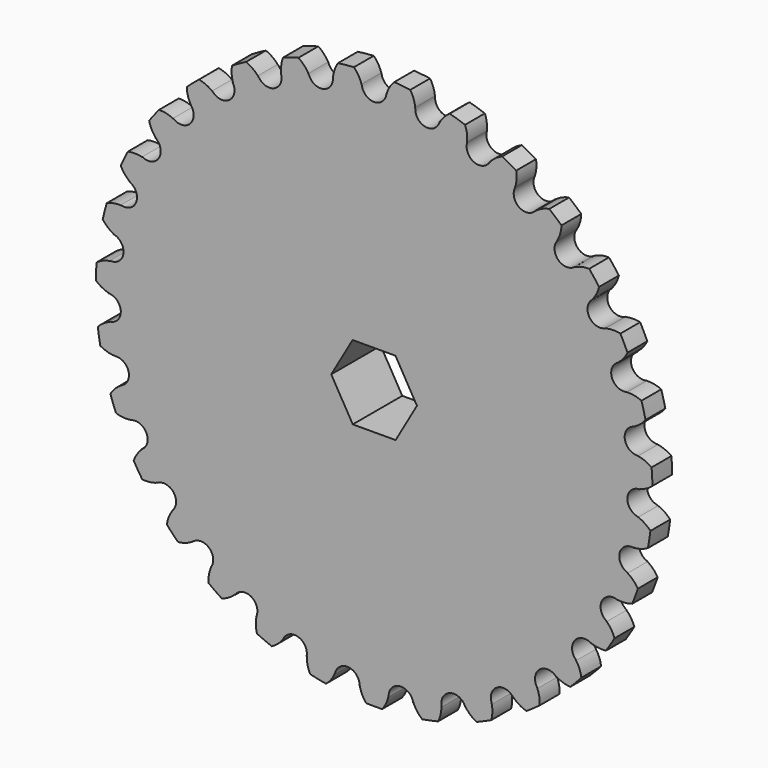
from build123d import *

# Parameters (mm, degrees)
F0_R          = 71.4375
F1_DEPTH      = 6.35
F3_DEPTH      = 6.35
F5_DEPTH      = 6.35
F6_R          = 25.4
F7_DEPTH      = 9.525
F9_DEPTH      = 9.525
F9_DEPTH_BACK = 9.525


with BuildPart() as f1:
    # F0 (on Front) → F1 (new body)
    with BuildSketch(Plane.XZ):
        Circle(F0_R)
    extrude(amount=F1_DEPTH)

    # F2 (on Front) → F3 (cut)
    with BuildSketch(Plane.XZ):
        with BuildLine():
            Line((-3.3226744186, 71.3601866657), (-3.1715638518, 68.1148255814))
            ThreePointArc((-3.1715638518, 68.1148255814), (0, 65.0875), (3.1715638518, 68.1148255814))
            Line((3.1715638518, 68.1148255814), (3.3226744186, 71.3601866657))
            ThreePointArc((3.3226744186, 71.3601866657), (0, 71.4375), (-3.3226744186, 71.3601866657))
        make_face()
        with BuildLine():
            Line((-68.1880377642, -0.2824661289), (-71.4368870754, -0.295924353))
            ThreePointArc((-71.4368870754, -0.295924353), (-71.345810481, -3.6182499989), (-71.1003056802, -6.9327439326))
            Line((-71.1003056802, -6.9327439326), (-67.8667636182, -6.6174524736))
            ThreePointArc((-67.8667636182, -6.6174524736), (-65.0039606605, -3.2966277768), (-68.1880377642, -0.2824661289))
        make_face()
        with BuildLine():
            Line((-66.8490846391, 13.449467059), (-70.0341389346, 14.0902728839))
            ThreePointArc((-70.0341389346, 14.0902728839), (-70.6137059192, 10.8176218555), (-71.0404293397, 7.5215560542))
            Line((-71.0404293397, 7.5215560542), (-67.8096103696, 7.1794862468))
            ThreePointArc((-67.8096103696, 7.1794862468), (-64.3369320597, 9.8560554683), (-66.8490846391, 13.449467059))
        make_face()
        with BuildLine():
            Line((-62.7733221343, 26.6307774853), (-65.7641849171, 27.8996126934))
            ThreePointArc((-65.7641849171, 27.8996126934), (-66.9906679403, 24.8106190001), (-68.0721494752, 21.6679226525))
            Line((-68.0721494752, 21.6679226525), (-64.9763237052, 20.6824959568))
            ThreePointArc((-64.9763237052, 20.6824959568), (-61.0359419011, 22.6052306445), (-62.7733221343, 26.6307774853))
        make_face()
        with BuildLine():
            Line((-56.1276124458, 38.7218207524), (-58.8018374421, 40.5667390812))
            ThreePointArc((-58.8018374421, 40.5667390812), (-60.6250241448, 37.7878664877), (-62.316987813, 34.9272019515))
            Line((-62.316987813, 34.9272019515), (-59.482898714, 33.3387618521))
            ThreePointArc((-59.482898714, 33.3387618521), (-55.2361331097, 34.4289450222), (-56.1276124458, 38.7218207524))
        make_face()
        with BuildLine():
            Line((-47.1840317091, 49.2275881282), (-49.4321358333, 51.5730584046))
            ThreePointArc((-49.4321358333, 51.5730584046), (-51.7773847377, 49.2180742815), (-54.0105613479, 46.7565574988))
            Line((-54.0105613479, 46.7565574988), (-51.5542368604, 44.6301349202))
            ThreePointArc((-51.5542368604, 44.6301349202), (-47.1749505388, 44.8431343453), (-47.1840317091, 49.2275881282))
        make_face()
        with BuildLine():
            Line((-36.3087311704, 57.7179722621), (-38.0386767755, 60.4679706574))
            ThreePointArc((-38.0386767755, 60.4679706574), (-40.8099731158, 58.6332883312), (-43.4929361551, 56.6716940884))
            Line((-43.4929361551, 56.6716940884), (-41.5149384924, 54.0943450207))
            ThreePointArc((-41.5149384924, 54.0943450207), (-37.18241995, 53.4214404796), (-36.3087311704, 57.7179722621))
        make_face()
        with BuildLine():
            Line((-23.9469469114, 63.84537583), (-25.0879098211, 66.8873170867))
            ThreePointArc((-25.0879098211, 66.8873170867), (-28.1717963997, 65.6480486676), (-31.194705046, 64.2666848635))
            Line((-31.194705046, 64.2666848635), (-29.7760136647, 61.3439262803))
            ThreePointArc((-29.7760136647, 61.3439262803), (-25.6676367197, 59.8126665638), (-23.9469469114, 63.84537583))
        make_face()
        with BuildLine():
            Line((-10.6047718322, 67.3589422099), (-11.110040891, 70.5682888956))
            ThreePointArc((-11.110040891, 70.5682888956), (-14.3802630288, 69.9751701782), (-17.6193590471, 69.2305900092))
            Line((-17.6193590471, 69.2305900092), (-16.8180553391, 66.0820799904))
            ThreePointArc((-16.8180553391, 66.0820799904), (-13.1020174263, 63.7551550513), (-10.6047718322, 67.3589422099))
        make_face()
        with BuildLine():
            Line((-68.2493271522, -21.1032165683), (-65.1454435902, -20.1434719123))
            ThreePointArc((-65.1454435902, -20.1434719123), (-63.0097194742, -16.3143466934), (-66.7353646116, -14.0028351204))
            Line((-66.7353646116, -14.0028351204), (-69.9150006659, -14.6700064121))
            ThreePointArc((-69.9150006659, -14.6700064121), (-69.157009179, -17.9059902732), (-68.2493271522, -21.1032165683))
        make_face()
        with BuildLine():
            Line((-62.5505377907, -27.1499263967), (-65.5307859145, -28.4434966851))
            ThreePointArc((-65.5307859145, -28.4434966851), (-64.1369117956, -31.4606572019), (-62.6042131516, -34.4097210382))
            Line((-62.6042131516, -34.4097210382), (-59.7570614474, -32.8448152441))
            ThreePointArc((-59.7570614474, -32.8448152441), (-58.4358529693, -28.6641543395), (-62.5505377907, -27.1499263967))
        make_face()
        with BuildLine():
            Line((-54.3960753089, -46.3074874857), (-51.9222181878, -44.2014879807))
            ThreePointArc((-51.9222181878, -44.2014879807), (-51.4696157779, -39.8404481391), (-55.8048846032, -39.1854964964))
            Line((-55.8048846032, -39.1854964964), (-58.4637330882, -41.0525068618))
            ThreePointArc((-58.4637330882, -41.0525068618), (-56.4910417075, -43.7273211282), (-54.3960753089, -46.3074874857))
        make_face()
        with BuildLine():
            Line((-43.9609557518, -56.3094199548), (-41.9616732149, -53.748546606))
            ThreePointArc((-41.9616732149, -53.748546606), (-42.3962064692, -49.3856693108), (-46.7745728833, -49.6168077654))
            Line((-46.7745728833, -49.6168077654), (-49.0031681601, -51.9808225841))
            ThreePointArc((-49.0031681601, -51.9808225841), (-46.5324217345, -54.2037833899), (-43.9609557518, -56.3094199548))
        make_face()
        with BuildLine():
            Line((16.8180553391, 66.0820799904), (17.6193590471, 69.2305900092))
            ThreePointArc((17.6193590471, 69.2305900092), (14.3802630288, 69.9751701782), (11.110040891, 70.5682888956))
            Line((11.110040891, 70.5682888956), (10.6047718322, 67.3589422099))
            ThreePointArc((10.6047718322, 67.3589422099), (13.1020174263, 63.7551550513), (16.8180553391, 66.0820799904))
        make_face()
        with BuildLine():
            Line((-31.726069501, -64.0060381548), (-30.2832124104, -61.0951334179))
            ThreePointArc((-30.2832124104, -61.0951334179), (-31.5870914862, -56.9090353783), (-35.8293046538, -58.0168010948))
            Line((-35.8293046538, -58.0168010948), (-37.5364077699, -60.7810373224))
            ThreePointArc((-37.5364077699, -60.7810373224), (-34.6687589483, -62.4611363908), (-31.726069501, -64.0060381548))
        make_face()
        with BuildLine():
            Line((-18.1923142372, -69.0822416323), (-17.3649533316, -65.9404782894))
            ThreePointArc((-17.3649533316, -65.9404782894), (-19.4847972665, -62.1025388509), (-23.417180482, -64.0415797707))
            Line((-23.417180482, -64.0415797707), (-24.5329024352, -67.0928692512))
            ThreePointArc((-24.5329024352, -67.0928692512), (-21.3857530974, -68.1613231291), (-18.1923142372, -69.0822416323))
        make_face()
        with BuildLine():
            Line((-3.913763491, -71.3302100206), (-3.7357710232, -68.0862122321))
            ThreePointArc((-3.7357710232, -68.0862122321), (-6.5847931574, -64.7535570863), (-10.0463541899, -67.4444886462))
            Line((-10.0463541899, -67.4444886462), (-10.5250171924, -70.6579112297))
            ThreePointArc((-10.5250171924, -70.6579112297), (-7.227212002, -71.0709772898), (-3.913763491, -71.3302100206))
        make_face()
        with BuildLine():
            Line((10.5250171924, -70.6579112297), (10.0463541899, -67.4444886462))
            ThreePointArc((10.0463541899, -67.4444886462), (6.5847931574, -64.7535570863), (3.7357710232, -68.0862122321))
            Line((3.7357710232, -68.0862122321), (3.913763491, -71.3302100206))
            ThreePointArc((3.913763491, -71.3302100206), (7.227212002, -71.0709772898), (10.5250171924, -70.6579112297))
        make_face()
        with BuildLine():
            Line((24.5329024352, -67.0928692512), (23.417180482, -64.0415797707))
            ThreePointArc((23.417180482, -64.0415797707), (19.4847972665, -62.1025388509), (17.3649533316, -65.9404782894))
            Line((17.3649533316, -65.9404782894), (18.1923142372, -69.0822416323))
            ThreePointArc((18.1923142372, -69.0822416323), (21.3857530974, -68.1613231291), (24.5329024352, -67.0928692512))
        make_face()
        with BuildLine():
            Line((37.5364077699, -60.7810373224), (35.8293046538, -58.0168010948))
            ThreePointArc((35.8293046538, -58.0168010948), (31.5870914862, -56.9090353783), (30.2832124104, -61.0951334179))
            Line((30.2832124104, -61.0951334179), (31.726069501, -64.0060381548))
            ThreePointArc((31.726069501, -64.0060381548), (34.6687589483, -62.4611363908), (37.5364077699, -60.7810373224))
        make_face()
        with BuildLine():
            Line((49.0031681601, -51.9808225841), (46.7745728833, -49.6168077654))
            ThreePointArc((46.7745728833, -49.6168077654), (42.3962064692, -49.3856693108), (41.9616732149, -53.748546606))
            Line((41.9616732149, -53.748546606), (43.9609557518, -56.3094199548))
            ThreePointArc((43.9609557518, -56.3094199548), (46.5324217345, -54.2037833899), (49.0031681601, -51.9808225841))
        make_face()
        with BuildLine():
            Line((58.4637330882, -41.0525068618), (55.8048846032, -39.1854964964))
            ThreePointArc((55.8048846032, -39.1854964964), (51.4696157779, -39.8404481391), (51.9222181878, -44.2014879807))
            Line((51.9222181878, -44.2014879807), (54.3960753089, -46.3074874857))
            ThreePointArc((54.3960753089, -46.3074874857), (56.4910417075, -43.7273211282), (58.4637330882, -41.0525068618))
        make_face()
        with BuildLine():
            Line((65.5307859145, -28.4434966851), (62.5505377907, -27.1499263967))
            ThreePointArc((62.5505377907, -27.1499263967), (58.4358529693, -28.6641543395), (59.7570614474, -32.8448152441))
            Line((59.7570614474, -32.8448152441), (62.6042131516, -34.4097210382))
            ThreePointArc((62.6042131516, -34.4097210382), (64.1369117956, -31.4606572019), (65.5307859145, -28.4434966851))
        make_face()
        with BuildLine():
            Line((69.9150006659, -14.6700064121), (66.7353646116, -14.0028351204))
            ThreePointArc((66.7353646116, -14.0028351204), (63.0097194742, -16.3143466934), (65.1454435902, -20.1434719123))
            Line((65.1454435902, -20.1434719123), (68.2493271522, -21.1032165683))
            ThreePointArc((68.2493271522, -21.1032165683), (69.157009179, -17.9059902732), (69.9150006659, -14.6700064121))
        make_face()
        with BuildLine():
            Line((71.4368870754, -0.295924353), (68.1880377642, -0.2824661289))
            ThreePointArc((68.1880377642, -0.2824661289), (65.0039606605, -3.2966277768), (67.8667636182, -6.6174524736))
            Line((67.8667636182, -6.6174524736), (71.1003056802, -6.9327439326))
            ThreePointArc((71.1003056802, -6.9327439326), (71.345810481, -3.6182499989), (71.4368870754, -0.295924353))
        make_face()
        with BuildLine():
            Line((70.0341389346, 14.0902728839), (66.8490846391, 13.449467059))
            ThreePointArc((66.8490846391, 13.449467059), (64.3369320597, 9.8560554683), (67.8096103696, 7.1794862468))
            Line((67.8096103696, 7.1794862468), (71.0404293397, 7.5215560542))
            ThreePointArc((71.0404293397, 7.5215560542), (70.6137059192, 10.8176218555), (70.0341389346, 14.0902728839))
        make_face()
        with BuildLine():
            Line((65.7641849171, 27.8996126934), (62.7733221343, 26.6307774853))
            ThreePointArc((62.7733221343, 26.6307774853), (61.0359419011, 22.6052306445), (64.9763237052, 20.6824959568))
            Line((64.9763237052, 20.6824959568), (68.0721494752, 21.6679226525))
            ThreePointArc((68.0721494752, 21.6679226525), (66.9906679403, 24.8106190001), (65.7641849171, 27.8996126934))
        make_face()
        with BuildLine():
            Line((58.8018374421, 40.5667390812), (56.1276124458, 38.7218207524))
            ThreePointArc((56.1276124458, 38.7218207524), (55.2361331097, 34.4289450222), (59.482898714, 33.3387618521))
            Line((59.482898714, 33.3387618521), (62.316987813, 34.9272019515))
            ThreePointArc((62.316987813, 34.9272019515), (60.6250241448, 37.7878664877), (58.8018374421, 40.5667390812))
        make_face()
        with BuildLine():
            Line((49.4321358333, 51.5730584046), (47.1840317091, 49.2275881282))
            ThreePointArc((47.1840317091, 49.2275881282), (47.1749505388, 44.8431343453), (51.5542368604, 44.6301349202))
            Line((51.5542368604, 44.6301349202), (54.0105613479, 46.7565574988))
            ThreePointArc((54.0105613479, 46.7565574988), (51.7773847377, 49.2180742815), (49.4321358333, 51.5730584046))
        make_face()
        with BuildLine():
            Line((38.0386767755, 60.4679706574), (36.3087311704, 57.7179722621))
            ThreePointArc((36.3087311704, 57.7179722621), (37.18241995, 53.4214404796), (41.5149384924, 54.0943450207))
            Line((41.5149384924, 54.0943450207), (43.4929361551, 56.6716940884))
            ThreePointArc((43.4929361551, 56.6716940884), (40.8099731158, 58.6332883312), (38.0386767755, 60.4679706574))
        make_face()
        with BuildLine():
            Line((25.0879098211, 66.8873170867), (23.9469469114, 63.84537583))
            ThreePointArc((23.9469469114, 63.84537583), (25.6676367197, 59.8126665638), (29.7760136647, 61.3439262803))
            Line((29.7760136647, 61.3439262803), (31.194705046, 64.2666848635))
            ThreePointArc((31.194705046, 64.2666848635), (28.1717963997, 65.6480486676), (25.0879098211, 66.8873170867))
        make_face()
    extrude(amount=F3_DEPTH, mode=Mode.SUBTRACT)

    # F4 (on Front) → F5 (cut)
    with BuildSketch(Plane.XZ):
        with BuildLine():
            ThreePointArc((3.1563134428, 67.7872966395), (3.9402414233, 69.6477783764), (5.1681811544, 71.2503074366))
            ThreePointArc((5.1681811544, 71.2503074366), (4.2457832554, 71.3112174261), (3.3226744186, 71.3601866657))
            Line((3.3226744186, 71.3601866657), (3.1563134428, 67.7872966395))
        make_face()
        with BuildLine():
            ThreePointArc((9.2801932603, 70.8321566755), (10.1604102647, 69.0152490287), (10.5537789732, 67.0350479199))
            Line((10.5537789732, 67.0350479199), (11.110040891, 70.5682888956))
            ThreePointArc((11.110040891, 70.5682888956), (10.1959707109, 70.706142502), (9.2801932603, 70.8321566755))
        make_face()
        with BuildLine():
            ThreePointArc((-10.5537789732, 67.0350479199), (-10.1604102647, 69.0152490287), (-9.2801932603, 70.8321566755))
            ThreePointArc((-9.2801932603, 70.8321566755), (-10.1959707109, 70.706142502), (-11.110040891, 70.5682888956))
            Line((-11.110040891, 70.5682888956), (-10.5537789732, 67.0350479199))
        make_face()
        with BuildLine():
            ThreePointArc((-5.1681811544, 71.2503074366), (-3.9402414233, 69.6477783764), (-3.1563134428, 67.7872966395))
            Line((-3.1563134428, 67.7872966395), (-3.3226744186, 71.3601866657))
            ThreePointArc((-3.3226744186, 71.3601866657), (-4.2457832554, 71.3112174261), (-5.1681811544, 71.2503074366))
        make_face()
        with BuildLine():
            ThreePointArc((-23.831798438, 63.5383764622), (-23.8450935627, 65.5572272768), (-23.3486354725, 67.5141290977))
            ThreePointArc((-23.3486354725, 67.5141290977), (-24.2203004383, 67.2063497962), (-25.0879098211, 66.8873170867))
            Line((-25.0879098211, 66.8873170867), (-23.831798438, 63.5383764622))
        make_face()
        with BuildLine():
            ThreePointArc((-19.4049696254, 68.7514622396), (-17.8795791645, 67.4289194941), (-16.7371860155, 65.76432547))
            Line((-16.7371860155, 65.76432547), (-17.6193590471, 69.2305900092))
            ThreePointArc((-17.6193590471, 69.2305900092), (-18.5137143563, 68.9968027301), (-19.4049696254, 68.7514622396))
        make_face()
        with BuildLine():
            ThreePointArc((-36.1341412746, 57.4404364067), (-36.5535559286, 59.4152849376), (-36.4611818052, 61.4320651421))
            ThreePointArc((-36.4611818052, 61.4320651421), (-37.25304822, 60.9551212333), (-38.0386767755, 60.4679706574))
            Line((-38.0386767755, 60.4679706574), (-36.1341412746, 57.4404364067))
        make_face()
        with BuildLine():
            ThreePointArc((-32.8473163599, 63.4379241007), (-31.086924834, 62.4495127251), (-29.6328362262, 61.0489550888))
            Line((-29.6328362262, 61.0489550888), (-31.194705046, 64.2666848635))
            ThreePointArc((-31.194705046, 64.2666848635), (-32.0236918162, 63.8576508236), (-32.8473163599, 63.4379241007))
        make_face()
        with BuildLine():
            ThreePointArc((-46.9571481218, 48.9908781358), (-47.7655114199, 50.840873852), (-48.0810030707, 52.8349652216))
            ThreePointArc((-48.0810030707, 52.8349652216), (-48.7606518305, 52.2083828453), (-49.4321358333, 51.5730584046))
            Line((-49.4321358333, 51.5730584046), (-46.9571481218, 48.9908781358))
        make_face()
        with BuildLine():
            ThreePointArc((-44.9448901033, 55.5272298954), (-43.0215681482, 54.9134155677), (-41.3153146402, 53.8342333133))
            Line((-41.3153146402, 53.8342333133), (-43.4929361551, 56.6716940884))
            ThreePointArc((-43.4929361551, 56.6716940884), (-44.2226155706, 56.1041591894), (-44.9448901033, 55.5272298954))
        make_face()
        with BuildLine():
            ThreePointArc((-55.8577238077, 38.5356275577), (-57.0219412614, 40.1850314174), (-57.7323824213, 42.074795617))
            ThreePointArc((-57.7323824213, 42.074795617), (-58.2719886259, 41.3242271293), (-58.8018374421, 40.5667390812))
            Line((-58.8018374421, 40.5667390812), (-55.8577238077, 38.5356275577))
        make_face()
        with BuildLine():
            ThreePointArc((-55.202414765, 45.343244374), (-53.1949034076, 45.1291567249), (-51.3063392184, 44.4155317007))
            Line((-51.3063392184, 44.4155317007), (-54.0105613479, 46.7565574988))
            ThreePointArc((-54.0105613479, 46.7565574988), (-54.6110602475, 46.053756686), (-55.202414765, 45.343244374))
        make_face()
        with BuildLine():
            ThreePointArc((-62.4714777179, 26.5027238597), (-63.943886128, 27.884009075), (-65.0201912522, 29.5920789364))
            ThreePointArc((-65.0201912522, 29.5920789364), (-65.3976633603, 28.7482526992), (-65.7641849171, 27.8996126934))
            Line((-65.7641849171, 27.8996126934), (-62.4714777179, 26.5027238597))
        make_face()
        with BuildLine():
            ThreePointArc((-63.1999460803, 33.3029011003), (-61.1904330713, 33.4973049033), (-59.1968762408, 33.1784530016))
            Line((-59.1968762408, 33.1784530016), (-62.316987813, 34.9272019515))
            ThreePointArc((-62.316987813, 34.9272019515), (-62.7637217014, 34.1179079728), (-63.1999460803, 33.3029011003))
        make_face()
        with BuildLine():
            ThreePointArc((-66.5276419903, 13.384795533), (-68.2479607833, 14.4414121248), (-69.6460658137, 15.8978590671))
            ThreePointArc((-69.6460658137, 15.8978590671), (-69.8459500729, 14.9953214259), (-70.0341389346, 14.0902728839))
            Line((-70.0341389346, 14.0902728839), (-66.5276419903, 13.384795533))
        make_face()
        with BuildLine():
            ThreePointArc((-68.6100641774, 19.8991331427), (-66.6808192156, 20.4940694832), (-64.6638861945, 20.5830445384))
            Line((-64.6638861945, 20.5830445384), (-68.0721494752, 21.6679226525))
            ThreePointArc((-68.0721494752, 21.6679226525), (-68.3468290144, 20.7852680985), (-68.6100641774, 19.8991331427))
        make_face()
        with BuildLine():
            ThreePointArc((-67.8601567829, -0.2811078955), (-69.7579559054, 0.4075820655), (-71.4206222578, 1.5527789798))
            ThreePointArc((-71.4206222578, 1.5527789798), (-71.4347353829, 0.6284799315), (-71.4368870754, -0.295924353))
            Line((-71.4368870754, -0.295924353), (-67.8601567829, -0.2811078955))
        make_face()
        with BuildLine():
            ThreePointArc((-71.2112781856, 5.6806923361), (-69.4412847864, 6.6518044505), (-67.4835490498, 7.1449638134))
            Line((-67.4835490498, 7.1449638134), (-71.0404293397, 7.5215560542))
            ThreePointArc((-71.0404293397, 7.5215560542), (-71.1318091171, 6.6016769061), (-71.2112781856, 5.6806923361))
        make_face()
        with BuildLine():
            ThreePointArc((-66.4144687836, -13.9355027338), (-68.4120521165, -13.6429344515), (-70.271210035, -12.8558720615))
            ThreePointArc((-70.271210035, -12.8558720615), (-70.0989742331, -13.7640916051), (-69.9150006659, -14.6700064121))
            Line((-69.9150006659, -14.6700064121), (-66.4144687836, -13.9355027338))
        make_face()
        with BuildLine():
            ThreePointArc((-70.897094098, -8.7703166821), (-69.3588159992, -7.4627862379), (-67.5404274779, -6.5856325697))
            Line((-67.5404274779, -6.5856325697), (-71.1003056802, -6.9327439326))
            ThreePointArc((-71.1003056802, -6.9327439326), (-71.004644597, -7.8521877145), (-70.897094098, -8.7703166821))
        make_face()
        with BuildLine():
            ThreePointArc((-62.2497646289, -27.0193764527), (-64.2653508759, -27.1349076291), (-66.2448862169, -26.73820219))
            ThreePointArc((-66.2448862169, -26.73820219), (-65.893352842, -27.5931596142), (-65.5307859145, -28.4434966851))
            Line((-65.5307859145, -28.4434966851), (-62.2497646289, -27.0193764527))
        make_face()
        with BuildLine():
            ThreePointArc((-67.680374648, -22.8622679049), (-66.4367891356, -21.271849581), (-64.8321928695, -20.0466123816))
            Line((-64.8321928695, -20.0466123816), (-68.2493271522, -21.1032165683))
            ThreePointArc((-68.2493271522, -21.1032165683), (-67.9705415844, -21.9845828475), (-67.680374648, -22.8622679049))
        make_face()
        with BuildLine():
            ThreePointArc((-55.5365477962, -38.9970737251), (-57.4876186196, -39.5159745001), (-59.5064889737, -39.5258671793))
            ThreePointArc((-59.5064889737, -39.5258671793), (-58.9900498433, -40.2925604267), (-58.4637330882, -41.0525068618))
            Line((-58.4637330882, -41.0525068618), (-55.5365477962, -38.9970737251))
        make_face()
        with BuildLine():
            ThreePointArc((-61.6928127078, -36.0182351935), (-60.7948323188, -34.2100409028), (-59.4697206675, -32.6868815272))
            Line((-59.4697206675, -32.6868815272), (-62.6042131516, -34.4097210382))
            ThreePointArc((-62.6042131516, -34.4097210382), (-62.1537166131, -35.2169265756), (-61.6928127078, -36.0182351935))
        make_face()
        with BuildLine():
            ThreePointArc((-46.5496581716, -49.3782262172), (-48.3563365024, -50.2792527321), (-50.3318890801, -50.6953385222))
            ThreePointArc((-50.3318890801, -50.6953385222), (-49.671687273, -51.342379081), (-49.0031681601, -51.9808225841))
            Line((-49.0031681601, -51.9808225841), (-46.5496581716, -49.3782262172))
        make_face()
        with BuildLine():
            ThreePointArc((-53.1795397667, -47.6996117013), (-52.6639279238, -45.7476691306), (-51.672551114, -43.9889459025))
            Line((-51.672551114, -43.9889459025), (-54.3960753089, -46.3074874857))
            ThreePointArc((-54.3960753089, -46.3074874857), (-53.7923111809, -47.0074851919), (-53.1795397667, -47.6996117013))
        make_face()
        with BuildLine():
            ThreePointArc((-35.657020072, -57.7378283262), (-37.2453402873, -58.9840924498), (-39.0966957339, -59.7893367495))
            ThreePointArc((-39.0966957339, -59.7893367495), (-38.3197599896, -60.2902347034), (-37.5364077699, -60.7810373224))
            Line((-37.5364077699, -60.7810373224), (-35.657020072, -57.7378283262))
        make_face()
        with BuildLine():
            ThreePointArc((-42.4890902192, -57.4281605015), (-42.3769561318, -55.412382409), (-41.7599012467, -53.4900976641))
            Line((-41.7599012467, -53.4900976641), (-43.9609557518, -56.3094199548))
            ThreePointArc((-43.9609557518, -56.3094199548), (-43.2286422086, -56.8735518414), (-42.4890902192, -57.4281605015))
        make_face()
        with BuildLine():
            ThreePointArc((-23.3045793812, -63.7336369597), (-24.6095154646, -65.2741164922), (-26.2608790706, -66.4355525053))
            ThreePointArc((-26.2608790706, -66.4355525053), (-25.3990172298, -66.7698010332), (-24.5329024352, -67.0928692512))
            Line((-24.5329024352, -67.0928692512), (-23.3045793812, -63.7336369597))
        make_face()
        with BuildLine():
            ThreePointArc((-30.0591323259, -64.8055936634), (-30.3550667767, -62.808506241), (-30.1375961157, -60.8013585425))
            Line((-30.1375961157, -60.8013585425), (-31.726069501, -64.0060381548))
            ThreePointArc((-31.726069501, -64.0060381548), (-30.8951875452, -64.411208596), (-30.0591323259, -64.8055936634))
        make_face()
        with BuildLine():
            ThreePointArc((-9.9980464723, -67.1201830077), (-10.9661741873, -68.891810536), (-12.3499389327, -70.3618889358))
            ThreePointArc((-12.3499389327, -70.3618889358), (-11.4384357204, -70.5158038635), (-10.5250171924, -70.6579112297))
            Line((-10.5250171924, -70.6579112297), (-9.9980464723, -67.1201830077))
        make_face()
        with BuildLine():
            ThreePointArc((-16.3985500234, -69.5298782063), (-17.0904374212, -67.6332424477), (-17.2814542587, -65.6234046583))
            Line((-17.2814542587, -65.6234046583), (-18.1923142372, -69.0822416323))
            ThreePointArc((-18.1923142372, -69.0822416323), (-17.2968802736, -69.3118629028), (-16.3985500234, -69.5298782063))
        make_face()
        with BuildLine():
            ThreePointArc((3.7178076339, -67.758820877), (3.1261235497, -69.6890657621), (2.0666091562, -71.407601366))
            ThreePointArc((2.0666091562, -71.407601366), (2.9904366913, -71.3748813985), (3.913763491, -71.3302100206))
            Line((3.913763491, -71.3302100206), (3.7178076339, -67.758820877))
        make_face()
        with BuildLine():
            ThreePointArc((-2.0666091562, -71.407601366), (-3.1261235497, -69.6890657621), (-3.7178076339, -67.758820877))
            Line((-3.7178076339, -67.758820877), (-3.913763491, -71.3302100206))
            ThreePointArc((-3.913763491, -71.3302100206), (-2.9904366913, -71.3748813985), (-2.0666091562, -71.407601366))
        make_face()
        with BuildLine():
            ThreePointArc((17.2814542587, -65.6234046583), (17.0904374212, -67.6332424477), (16.3985500234, -69.5298782063))
            ThreePointArc((16.3985500234, -69.5298782063), (17.2968802736, -69.3118629028), (18.1923142372, -69.0822416323))
            Line((18.1923142372, -69.0822416323), (17.2814542587, -65.6234046583))
        make_face()
        with BuildLine():
            ThreePointArc((12.3499389327, -70.3618889358), (10.9661741873, -68.891810536), (9.9980464723, -67.1201830077))
            Line((9.9980464723, -67.1201830077), (10.5250171924, -70.6579112297))
            ThreePointArc((10.5250171924, -70.6579112297), (11.4384357204, -70.5158038635), (12.3499389327, -70.3618889358))
        make_face()
        with BuildLine():
            ThreePointArc((30.1375961157, -60.8013585425), (30.3550667767, -62.808506241), (30.0591323259, -64.8055936634))
            ThreePointArc((30.0591323259, -64.8055936634), (30.8951875452, -64.411208596), (31.726069501, -64.0060381548))
            Line((31.726069501, -64.0060381548), (30.1375961157, -60.8013585425))
        make_face()
        with BuildLine():
            ThreePointArc((26.2608790706, -66.4355525053), (24.6095154646, -65.2741164922), (23.3045793812, -63.7336369597))
            Line((23.3045793812, -63.7336369597), (24.5329024352, -67.0928692512))
            ThreePointArc((24.5329024352, -67.0928692512), (25.3990172298, -66.7698010332), (26.2608790706, -66.4355525053))
        make_face()
        with BuildLine():
            ThreePointArc((41.7599012467, -53.4900976641), (42.3769561318, -55.412382409), (42.4890902192, -57.4281605015))
            ThreePointArc((42.4890902192, -57.4281605015), (43.2286422086, -56.8735518414), (43.9609557518, -56.3094199548))
            Line((43.9609557518, -56.3094199548), (41.7599012467, -53.4900976641))
        make_face()
        with BuildLine():
            ThreePointArc((39.0966957339, -59.7893367495), (37.2453402873, -58.9840924498), (35.657020072, -57.7378283262))
            Line((35.657020072, -57.7378283262), (37.5364077699, -60.7810373224))
            ThreePointArc((37.5364077699, -60.7810373224), (38.3197599896, -60.2902347034), (39.0966957339, -59.7893367495))
        make_face()
        with BuildLine():
            ThreePointArc((51.672551114, -43.9889459025), (52.6639279238, -45.7476691306), (53.1795397667, -47.6996117013))
            ThreePointArc((53.1795397667, -47.6996117013), (53.7923111809, -47.0074851919), (54.3960753089, -46.3074874857))
            Line((54.3960753089, -46.3074874857), (51.672551114, -43.9889459025))
        make_face()
        with BuildLine():
            ThreePointArc((50.3318890801, -50.6953385222), (48.3563365024, -50.2792527321), (46.5496581716, -49.3782262172))
            Line((46.5496581716, -49.3782262172), (49.0031681601, -51.9808225841))
            ThreePointArc((49.0031681601, -51.9808225841), (49.671687273, -51.342379081), (50.3318890801, -50.6953385222))
        make_face()
        with BuildLine():
            ThreePointArc((59.4697206675, -32.6868815272), (60.7948323188, -34.2100409028), (61.6928127078, -36.0182351935))
            ThreePointArc((61.6928127078, -36.0182351935), (62.1537166131, -35.2169265756), (62.6042131516, -34.4097210382))
            Line((62.6042131516, -34.4097210382), (59.4697206675, -32.6868815272))
        make_face()
        with BuildLine():
            ThreePointArc((59.5064889737, -39.5258671793), (57.4876186196, -39.5159745001), (55.5365477962, -38.9970737251))
            Line((55.5365477962, -38.9970737251), (58.4637330882, -41.0525068618))
            ThreePointArc((58.4637330882, -41.0525068618), (58.9900498433, -40.2925604267), (59.5064889737, -39.5258671793))
        make_face()
        with BuildLine():
            ThreePointArc((64.8321928695, -20.0466123816), (66.4367891356, -21.271849581), (67.680374648, -22.8622679049))
            ThreePointArc((67.680374648, -22.8622679049), (67.9705415844, -21.9845828475), (68.2493271522, -21.1032165683))
            Line((68.2493271522, -21.1032165683), (64.8321928695, -20.0466123816))
        make_face()
        with BuildLine():
            ThreePointArc((66.2448862169, -26.73820219), (64.2653508759, -27.1349076291), (62.2497646289, -27.0193764527))
            Line((62.2497646289, -27.0193764527), (65.5307859145, -28.4434966851))
            ThreePointArc((65.5307859145, -28.4434966851), (65.893352842, -27.5931596142), (66.2448862169, -26.73820219))
        make_face()
        with BuildLine():
            ThreePointArc((67.5404274779, -6.5856325697), (69.3588159992, -7.4627862379), (70.897094098, -8.7703166821))
            ThreePointArc((70.897094098, -8.7703166821), (71.004644597, -7.8521877145), (71.1003056802, -6.9327439326))
            Line((71.1003056802, -6.9327439326), (67.5404274779, -6.5856325697))
        make_face()
        with BuildLine():
            ThreePointArc((70.271210035, -12.8558720615), (68.4120521165, -13.6429344515), (66.4144687836, -13.9355027338))
            Line((66.4144687836, -13.9355027338), (69.9150006659, -14.6700064121))
            ThreePointArc((69.9150006659, -14.6700064121), (70.0989742331, -13.7640916051), (70.271210035, -12.8558720615))
        make_face()
        with BuildLine():
            ThreePointArc((67.4835490498, 7.1449638134), (69.4412847864, 6.6518044505), (71.2112781856, 5.6806923361))
            ThreePointArc((71.2112781856, 5.6806923361), (71.1318091171, 6.6016769061), (71.0404293397, 7.5215560542))
            Line((71.0404293397, 7.5215560542), (67.4835490498, 7.1449638134))
        make_face()
        with BuildLine():
            ThreePointArc((71.4206222578, 1.5527789798), (69.7579559054, 0.4075820655), (67.8601567829, -0.2811078955))
            Line((67.8601567829, -0.2811078955), (71.4368870754, -0.295924353))
            ThreePointArc((71.4368870754, -0.295924353), (71.4347353829, 0.6284799315), (71.4206222578, 1.5527789798))
        make_face()
        with BuildLine():
            ThreePointArc((64.6638861945, 20.5830445384), (66.6808192156, 20.4940694832), (68.6100641774, 19.8991331427))
            ThreePointArc((68.6100641774, 19.8991331427), (68.3468290144, 20.7852680985), (68.0721494752, 21.6679226525))
            Line((68.0721494752, 21.6679226525), (64.6638861945, 20.5830445384))
        make_face()
        with BuildLine():
            ThreePointArc((69.6460658137, 15.8978590671), (68.2479607833, 14.4414121248), (66.5276419903, 13.384795533))
            Line((66.5276419903, 13.384795533), (70.0341389346, 14.0902728839))
            ThreePointArc((70.0341389346, 14.0902728839), (69.8459500729, 14.9953214259), (69.6460658137, 15.8978590671))
        make_face()
        with BuildLine():
            ThreePointArc((59.1968762408, 33.1784530016), (61.1904330713, 33.4973049033), (63.1999460803, 33.3029011003))
            ThreePointArc((63.1999460803, 33.3029011003), (62.7637217014, 34.1179079728), (62.316987813, 34.9272019515))
            Line((62.316987813, 34.9272019515), (59.1968762408, 33.1784530016))
        make_face()
        with BuildLine():
            ThreePointArc((65.0201912522, 29.5920789364), (63.943886128, 27.884009075), (62.4714777179, 26.5027238597))
            Line((62.4714777179, 26.5027238597), (65.7641849171, 27.8996126934))
            ThreePointArc((65.7641849171, 27.8996126934), (65.3976633603, 28.7482526992), (65.0201912522, 29.5920789364))
        make_face()
        with BuildLine():
            ThreePointArc((51.3063392184, 44.4155317007), (53.1949034076, 45.1291567249), (55.202414765, 45.343244374))
            ThreePointArc((55.202414765, 45.343244374), (54.6110602475, 46.053756686), (54.0105613479, 46.7565574988))
            Line((54.0105613479, 46.7565574988), (51.3063392184, 44.4155317007))
        make_face()
        with BuildLine():
            ThreePointArc((57.7323824213, 42.074795617), (57.0219412614, 40.1850314174), (55.8577238077, 38.5356275577))
            Line((55.8577238077, 38.5356275577), (58.8018374421, 40.5667390812))
            ThreePointArc((58.8018374421, 40.5667390812), (58.2719886259, 41.3242271293), (57.7323824213, 42.074795617))
        make_face()
        with BuildLine():
            ThreePointArc((41.3153146402, 53.8342333133), (43.0215681482, 54.9134155677), (44.9448901033, 55.5272298954))
            ThreePointArc((44.9448901033, 55.5272298954), (44.2226155706, 56.1041591894), (43.4929361551, 56.6716940884))
            Line((43.4929361551, 56.6716940884), (41.3153146402, 53.8342333133))
        make_face()
        with BuildLine():
            ThreePointArc((48.0810030707, 52.8349652216), (47.7655114199, 50.840873852), (46.9571481218, 48.9908781358))
            Line((46.9571481218, 48.9908781358), (49.4321358333, 51.5730584046))
            ThreePointArc((49.4321358333, 51.5730584046), (48.7606518305, 52.2083828453), (48.0810030707, 52.8349652216))
        make_face()
        with BuildLine():
            ThreePointArc((29.6328362262, 61.0489550888), (31.086924834, 62.4495127251), (32.8473163599, 63.4379241007))
            ThreePointArc((32.8473163599, 63.4379241007), (32.0236918162, 63.8576508236), (31.194705046, 64.2666848635))
            Line((31.194705046, 64.2666848635), (29.6328362262, 61.0489550888))
        make_face()
        with BuildLine():
            ThreePointArc((36.4611818052, 61.4320651421), (36.5535559286, 59.4152849376), (36.1341412746, 57.4404364067))
            Line((36.1341412746, 57.4404364067), (38.0386767755, 60.4679706574))
            ThreePointArc((38.0386767755, 60.4679706574), (37.25304822, 60.9551212333), (36.4611818052, 61.4320651421))
        make_face()
        with BuildLine():
            ThreePointArc((16.7371860155, 65.76432547), (17.8795791645, 67.4289194941), (19.4049696254, 68.7514622396))
            ThreePointArc((19.4049696254, 68.7514622396), (18.5137143563, 68.9968027301), (17.6193590471, 69.2305900092))
            Line((17.6193590471, 69.2305900092), (16.7371860155, 65.76432547))
        make_face()
        with BuildLine():
            ThreePointArc((23.3486354725, 67.5141290977), (23.8450935627, 65.5572272768), (23.831798438, 63.5383764622))
            Line((23.831798438, 63.5383764622), (25.0879098211, 66.8873170867))
            ThreePointArc((25.0879098211, 66.8873170867), (24.2203004383, 67.2063497962), (23.3486354725, 67.5141290977))
        make_face()
    extrude(amount=F5_DEPTH, mode=Mode.SUBTRACT)

    # F6 (on Front) → F7 (join)
    with BuildSketch(Plane.XZ):
        Circle(F6_R)
    extrude(amount=-F7_DEPTH)

    # F8 (on Front) → F9 (cut, two sides)
    with BuildSketch(Plane.XZ) as f9_sk:
        Polygon((-10.9984873664, -0.0278505034), (-5.4751244397, -9.5388947142), (5.5233629267, -9.5110442108), (10.9984873664, 0.0278505034), (5.4751244397, 9.5388947142), (-5.5233629267, 9.5110442108), align=None)
    extrude(amount=-F9_DEPTH, mode=Mode.SUBTRACT)
    extrude(f9_sk.sketch, amount=F9_DEPTH_BACK, mode=Mode.SUBTRACT)


solid = f1.part
